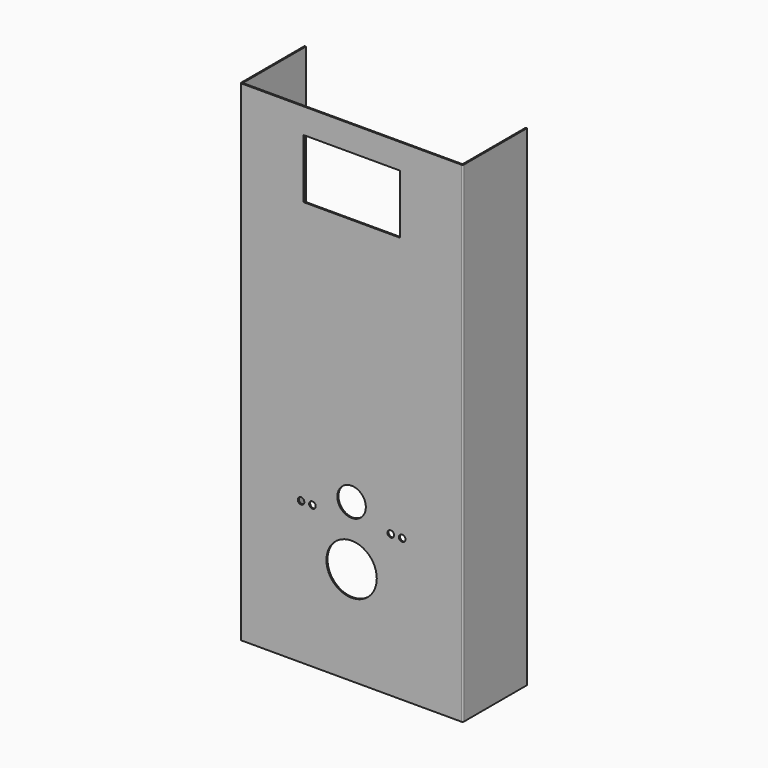
from build123d import *

# Parameters (mm, degrees)
F1_DEPTH = 1120
F2_R     = 57.5
F3_DEPTH = 183.001
F4_R     = 32.5
F5_DEPTH = 183.001
F7_DEPTH = 183.001
F8_R     = 7.5
F9_DEPTH = 183.001


with BuildPart() as f1:
    # F0 (on Top) → F1 (new body)
    with BuildSketch(Plane.XY):
        with BuildLine():
            Line((249, 0), (0, 0))
            Line((0, 0), (-249, 0))
            ThreePointArc((-249, 0), (-250.414214, 0.585786), (-251, 2))
            Line((-251, 2), (-251, 180))
            Line((-251, 180), (-254, 180))
            Line((-254, 180), (-254, 0))
            ThreePointArc((-254, 0), (-253.12132, -2.12132), (-251, -3))
            Line((-251, -3), (0, -3))
            Line((0, -3), (251, -3))
            ThreePointArc((251, -3), (253.12132, -2.12132), (254, 0))
            Line((254, 0), (254, 180))
            Line((254, 180), (251, 180))
            Line((251, 180), (251, 2))
            ThreePointArc((251, 2), (250.414214, 0.585786), (249, 0))
        make_face()
    extrude(amount=F1_DEPTH)

    # F2 (on face) → F3 (cut, through all)
    with BuildSketch(Plane.XZ.offset(3)):
        with Locations((0, 225)):
            Circle(F2_R)
    extrude(amount=-F3_DEPTH, mode=Mode.SUBTRACT)

    # F4 (on face) → F5 (cut, through all)
    with BuildSketch(Plane.XZ.offset(3)):
        with Locations((0, 360.5)):
            Circle(F4_R)
    extrude(amount=-F5_DEPTH, mode=Mode.SUBTRACT)

    # F6 (on face) → F7 (cut, through all)
    with BuildSketch(Plane.XZ.offset(3)):
        Polygon((-110, 927.5), (0, 927.5), (110, 927.5), (110, 1062.5), (0, 1062.5), (-110, 1062.5), align=None)
    extrude(amount=-F7_DEPTH, mode=Mode.SUBTRACT)

    # F8 (on face) → F9 (cut, through all)
    with BuildSketch(Plane.XZ.offset(3)):
        with Locations((-115.5, 325)):
            Circle(F8_R)
        with Locations((-89.5, 325)):
            Circle(F8_R)
        with Locations((89.5, 325)):
            Circle(F8_R)
        with Locations((115.5, 325)):
            Circle(F8_R)
    extrude(amount=-F9_DEPTH, mode=Mode.SUBTRACT)


solid = f1.part
